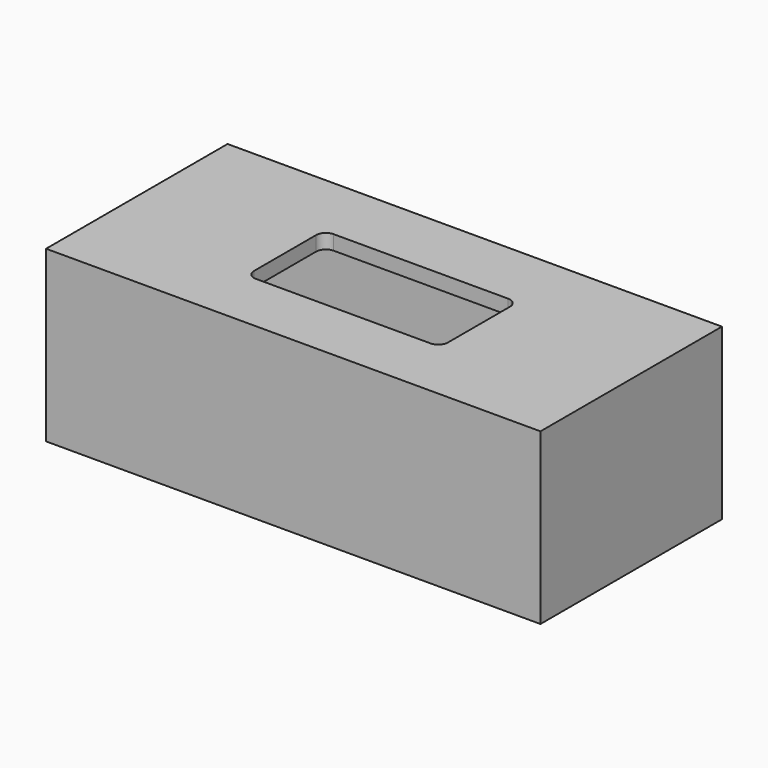
from build123d import *

# Parameters (mm, degrees)
F0_W     = 102
F0_H     = 46.8
F0_W_2   = 98
F0_H_2   = 43.8
F1_DEPTH = 32
F2_W     = 102
F2_H     = 46.8
F2_W_2   = 98
F2_H_2   = 43.8
F3_DEPTH = 3


with BuildPart() as f1:
    # F0 (on Top) → F1 (new body)
    with BuildSketch(Plane.XY):
        with Locations((0, 0.5)):
            Rectangle(F0_W, F0_H)
        Rectangle(F0_W_2, F0_H_2, mode=Mode.SUBTRACT)
    extrude(amount=F1_DEPTH)

    # F2 (on face) → F3 (join)
    with BuildSketch(Plane.XY.offset(32)):
        with Locations((0, 0.5)):
            Rectangle(F2_W, F2_H)
        Rectangle(F2_W_2, F2_H_2, mode=Mode.SUBTRACT)
        Rectangle(F2_W_2, F2_H_2)
        with BuildLine():
            Line((-18, 10), (18, 10))
            ThreePointArc((18, 10), (19.4142135624, 9.4142135624), (20, 8))
            Line((20, 8), (20, -8))
            ThreePointArc((20, -8), (19.4142135624, -9.4142135624), (18, -10))
            Line((18, -10), (-18, -10))
            ThreePointArc((-18, -10), (-19.4142135624, -9.4142135624), (-20, -8))
            Line((-20, -8), (-20, 8))
            ThreePointArc((-20, 8), (-19.4142135624, 9.4142135624), (-18, 10))
        make_face(mode=Mode.SUBTRACT)
    extrude(amount=F3_DEPTH)


solid = f1.part
